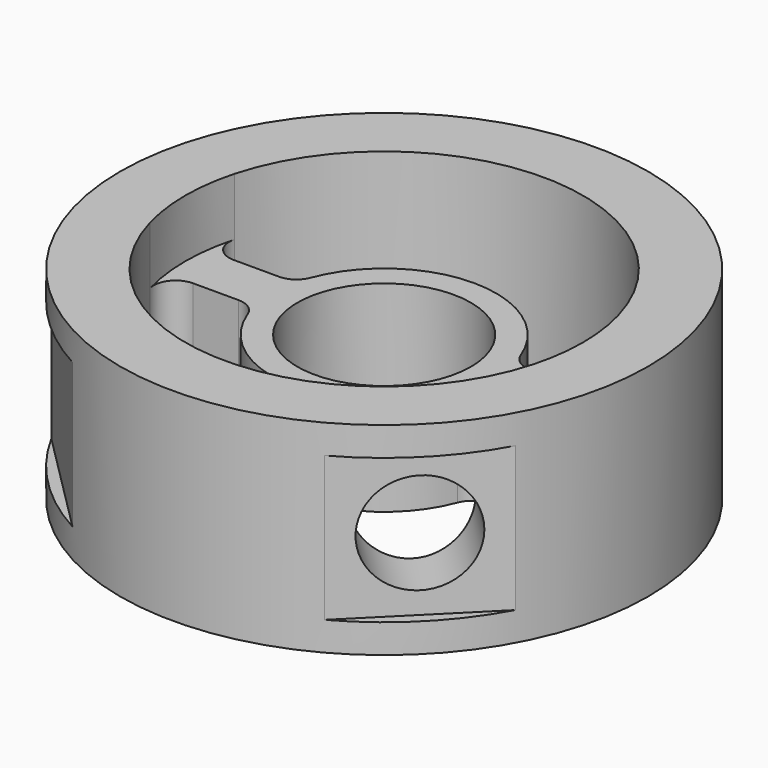
from build123d import *

# Parameters (mm, degrees)
F0_R      = 36.5
F1_DEPTH  = 14
F2_R      = 12
F3_DEPTH  = 28.001
F4_R      = 3
F5_R      = 27.5
F6_DEPTH  = 8
F7_R      = 27.5
F8_DEPTH  = 6.5
F10_DEPTH = 10
F11_R     = 7
F12_DEPTH = 10


with BuildPart() as f1:
    # F0 (on Top) → F1 (new body, symmetric)
    with BuildSketch(Plane.XY):
        Circle(F0_R)
    extrude(amount=F1_DEPTH, both=True)

    # F2 (on face) → F3 (cut, through all)
    with BuildSketch(Plane.XY.offset(14)):
        with BuildLine():
            Line((-15.0996688705, -3.5), (-27.276363394, -3.5))
            ThreePointArc((-27.276363394, -3.5), (0, -27.5), (27.276363394, -3.5))
            Line((27.276363394, -3.5), (15.0996688705, -3.5))
            ThreePointArc((15.0996688705, -3.5), (0, -15.5), (-15.0996688705, -3.5))
        make_face()
        Circle(F2_R)
        with BuildLine():
            ThreePointArc((27.276363394, 3.5), (0, 27.5), (-27.276363394, 3.5))
            Line((-27.276363394, 3.5), (-15.0996688705, 3.5))
            ThreePointArc((-15.0996688705, 3.5), (0, 15.5), (15.0996688705, 3.5))
            Line((15.0996688705, 3.5), (27.276363394, 3.5))
        make_face()
    extrude(amount=-F3_DEPTH, mode=Mode.SUBTRACT)

    # F4
    f4_edges = [f1.edges().sort_by_distance(p)[0] for p in [
        (-27.276363, 3.5, 0),
        (-15.099669, 3.5, 0),
        (15.099669, 3.5, 0),
        (27.276363, 3.5, 0),
        (27.276363, -3.5, 0),
        (15.099669, -3.5, 0),
        (-15.099669, -3.5, 0),
        (-27.276363, -3.5, 0),
    ]]
    fillet(f4_edges, radius=F4_R)

    # F5 (on face) → F6 (cut)
    with BuildSketch(Plane.XY.offset(14)):
        Circle(F5_R)
    extrude(amount=-F6_DEPTH, mode=Mode.SUBTRACT)

    # F7 (on face) → F8 (cut)
    with BuildSketch(Plane(origin=(0, 0, -14), x_dir=(1, 0, 0), z_dir=(0, 0, -1))):
        Circle(F7_R)
    extrude(amount=-F8_DEPTH, mode=Mode.SUBTRACT)

    # F9 (on Top) → F10 (cut, symmetric)
    with BuildSketch(Plane.XY):
        Polygon((0, -49.4974746831), (-40, -9.4974746831), (-40, -49.4974746831), align=None)
        Polygon((40, -9.4974746831), (0, -49.4974746831), (40, -49.4974746831), align=None)
    extrude(amount=F10_DEPTH, both=True, mode=Mode.SUBTRACT)

    # F11 (on face) → F12 (cut)
    with BuildSketch(Plane(origin=(24.7487373415, -24.7487373415, 0), x_dir=(0.7071067812, 0.7071067812, 0), z_dir=(0.7071067812, -0.7071067812, 0))):
        Circle(F11_R)
    extrude(amount=-F12_DEPTH, mode=Mode.SUBTRACT)


solid = f1.part
